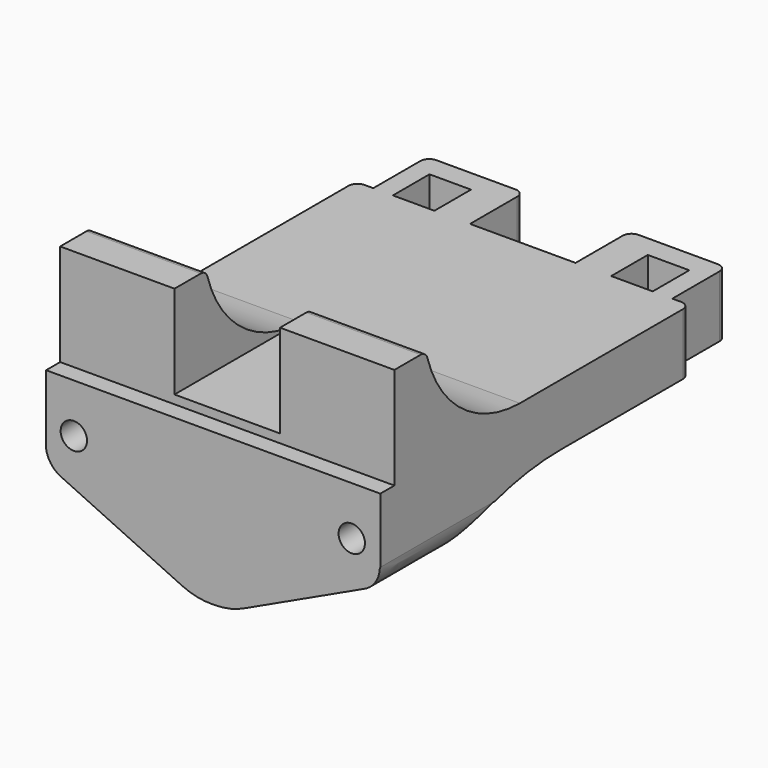
from build123d import *

# Parameters (mm, degrees)
SKETCH_W        = 4.72
SKETCH_H        = 5.2
PAD_DEPTH       = 18.3
POCKET_DEPTH    = 38.001
SKETCH002_R     = 1.5
POCKET001_DEPTH = 6
PAD001_DEPTH    = 13
SKETCH004_W     = 2
SKETCH004_H     = 0.982872
POCKET002_DEPTH = 38.001
POCKET003_DEPTH = 51.701
FILLET_R        = 1
CHAMFER_SIZE    = 0.5
FILLET001_R     = 1


with BuildPart() as part:
    # Sketch → Pad (new body)
    with BuildSketch(Plane.XY):
        Polygon((-19, 22), (-19, -22), (19, -22), (19, 22), (17, 22), (17, 29.7), (6, 29.7), (6, 22), (-6, 22), (-6, 29.7), (-17, 29.7), (-17, 22), align=None)
        with Locations((-12.41, 24.6)):
            Rectangle(SKETCH_W, SKETCH_H, mode=Mode.SUBTRACT)
        with Locations((12.41, 24.6)):
            Rectangle(SKETCH_W, SKETCH_H, mode=Mode.SUBTRACT)
    extrude(amount=PAD_DEPTH)

    # Sketch001 (on Face3 of Pad) → Pocket (cut, through all)
    with BuildSketch(Plane.YZ.offset(19)):
        with BuildLine():
            Line((29.7, 11.3), (29.7, 0))
            Line((29.7, 0), (-21.3, 0))
            ThreePointArc((3.7, 11.3), (-10.017598, 8.343801), (-21.3, 0))
            Line((29.7, 11.3), (3.7, 11.3))
        make_face()
    extrude(amount=-POCKET_DEPTH, mode=Mode.SUBTRACT)

    # Sketch002 (on Face5 of Pocket) → Pocket001 (cut)
    with BuildSketch(Plane.XZ.offset(22)):
        with Locations((-15.844609, 11.767382)):
            Circle(SKETCH002_R)
        with Locations((15.754541, 11.777902)):
            Circle(SKETCH002_R)
    extrude(amount=-POCKET001_DEPTH, mode=Mode.SUBTRACT)

    # Sketch003 (on Face1 of Pocket001) → Pad001 (join)
    with BuildSketch(Plane(origin=(-19, 0, 0), x_dir=(0, -1, 0), z_dir=(-1, 0, 0))):
        with BuildLine():
            Line((20, 18.3), (1.881002, 18.3))
            ThreePointArc((1.881002, 18.3), (10.537629, 21.219302), (15.5, 28.88966))
            Line((20, 28.88966), (15.5, 28.88966))
            Line((20, 18.3), (20, 28.88966))
        make_face()
    pad001 = extrude(amount=-PAD001_DEPTH)

    # Mirrored: Pad001 across YZ
    add(pad001.mirror(Plane.YZ))

    # Sketch004 (on Face5 of Mirrored) → Pocket002 (cut, through all)
    with BuildSketch(Plane(origin=(-19, 0, 0), x_dir=(0, -1, 0), z_dir=(-1, 0, 0))):
        with Locations((21, 17.808564)):
            Rectangle(SKETCH004_W, SKETCH004_H)
    extrude(amount=-POCKET002_DEPTH, mode=Mode.SUBTRACT)

    # Sketch005 (on Face23 of Pocket002) → Pocket003 (cut, through all)
    with BuildSketch(Plane.XZ.offset(22)):
        with BuildLine():
            add(Edge.make_bspline(
                [(-19.030813, 9.913328), (-19.030294, 8.01238), (-17.308198, 7.207429)],
                knots=[1.082896, 1.082896, 1.082896, 2.216203, 2.216203, 2.216203], degree=2, weights=[1, 0.843702, 1]))
            Line((-17.308198, 7.207429), (-3.577259, 0.790051))
            add(Edge.make_bspline(
                [(-3.577259, 0.790051), (-1.968517, 0.037468), (-0.192474, 0.03938)],
                knots=[2.215888, 2.215888, 2.215888, 2.654527, 2.654527, 2.654527], degree=2, weights=[1, 0.976046, 1]))
            Line((-0.192474, 0.03938), (0.111534, 0.039482))
            add(Edge.make_bspline(
                [(0.111534, 0.039482), (1.887576, 0.038752), (3.495769, 0.792404)],
                knots=[2.653039, 2.653039, 2.653039, 3.091677, 3.091677, 3.091677], degree=2, weights=[1, 0.976046, 1]))
            Line((3.495769, 0.792404), (17.222042, 7.218925))
            add(Edge.make_bspline(
                [(17.222042, 7.218925), (18.943553, 8.025023), (18.94269, 9.92597)],
                knots=[3.091363, 3.091363, 3.091363, 4.22467, 4.22467, 4.22467], degree=2, weights=[1, 0.843702, 1]))
            Line((18.94269, 9.92597), (19.755945, 10.17424))
            Line((19.755945, 10.17424), (19.755945, -1.191288))
            Line((19.755945, -1.191288), (-20.023405, -1.191288))
            Line((-20.023405, -1.191288), (-20.023405, 9.913328))
            Line((-20.023405, 9.913328), (-19.030813, 9.913328))
        make_face()
    extrude(amount=-POCKET003_DEPTH, mode=Mode.SUBTRACT)

    # Fillet
    fillet_edges = [part.edges().sort_by_distance(p)[0] for p in [
        (19, 22, 14.8),
        (17, 29.7, 14.8),
        (6, 29.7, 14.8),
        (-6, 29.7, 14.8),
        (-17, 29.7, 14.8),
        (-19, 22, 14.8),
    ]]
    fillet(fillet_edges, radius=FILLET_R)

    # Chamfer
    chamfer_edges = [part.edges().sort_by_distance(p)[0] for p in [
        (12.41, 22, 11.3),
        (10.05, 24.6, 11.3),
        (12.41, 27.2, 11.3),
        (14.77, 24.6, 11.3),
        (-10.05, 24.6, 11.3),
        (-12.41, 22, 11.3),
        (-14.77, 24.6, 11.3),
        (-12.41, 27.2, 11.3),
    ]]
    chamfer(chamfer_edges, length=CHAMFER_SIZE)

    # Fillet001
    fillet001_edges = [part.edges().sort_by_distance(p)[0] for p in [
        (-12.5, -15.5, 28.88966),
        (12.5, -15.5, 28.88966),
    ]]
    fillet(fillet001_edges, radius=FILLET001_R)


solid = part.part
